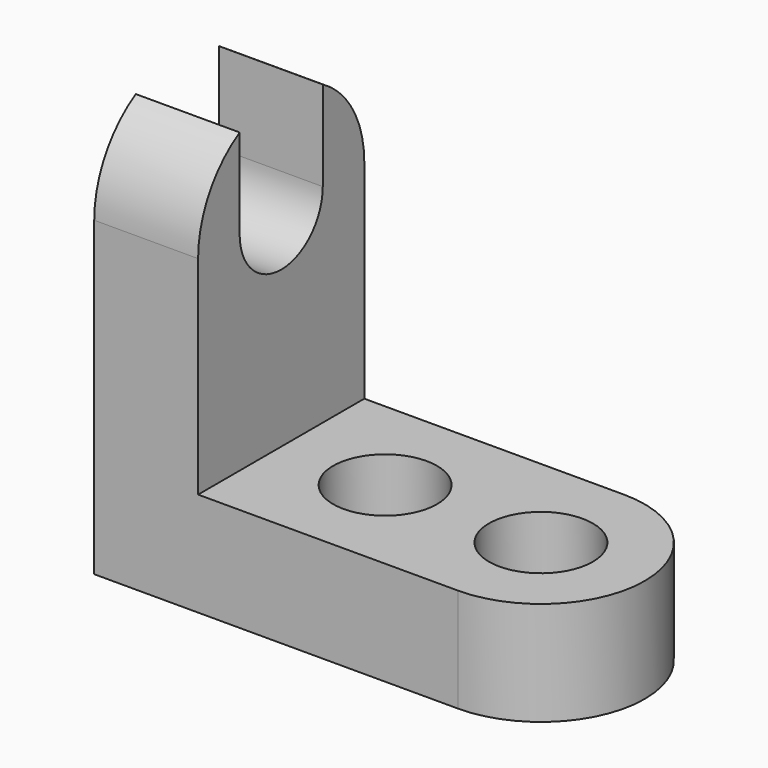
from build123d import *

# Parameters (mm, degrees)
F0_W      = 44.45
F0_H      = 25.4
F1_DEPTH  = 12.7
F2_R      = 12.7
F3_DEPTH  = 12.7
F4_W      = 12.7
F4_H      = 25.4
F5_DEPTH  = 25.4
F6_R      = 12.7
F7_DEPTH  = 12.7
F8_R      = 6.35
F9_DEPTH  = 12.7
F10_W     = 12.7
F10_H     = 21.287267
F11_DEPTH = 25.4
F12_R     = 6.35
F13_DEPTH = 25.4


with BuildPart() as f1:
    # F0 (on Top) → F1 (new body)
    with BuildSketch(Plane.XY):
        with Locations((22.225, 12.7)):
            Rectangle(F0_W, F0_H)
    extrude(amount=F1_DEPTH)

    # F2 (on face) → F3 (join)
    with BuildSketch(Plane.XY.offset(12.7)):
        with Locations((44.45, 12.7)):
            Circle(F2_R)
    extrude(amount=-F3_DEPTH)

    # F4 (on face) → F5 (join)
    with BuildSketch(Plane.XY.offset(12.7)):
        with Locations((6.35, 12.7)):
            Rectangle(F4_W, F4_H)
    extrude(amount=F5_DEPTH)

    # F6 (on face) → F7 (join)
    with BuildSketch(Plane(origin=(0, 0, 0), x_dir=(0, -1, 0), z_dir=(-1, 0, 0))):
        with Locations((-12.7, 38.1)):
            Circle(F6_R)
    extrude(amount=-F7_DEPTH)

    # F8 (on face) → F9 (cut)
    with BuildSketch(Plane(origin=(0, 0, 0), x_dir=(0, -1, 0), z_dir=(-1, 0, 0))):
        with Locations((-12.7, 38.1)):
            Circle(F8_R)
    extrude(amount=-F9_DEPTH, mode=Mode.SUBTRACT)

    # F10 (on face) → F11 (cut)
    with BuildSketch(Plane.YZ.offset(12.7)):
        with Locations((12.7, 48.743634)):
            Rectangle(F10_W, F10_H)
    extrude(amount=-F11_DEPTH, mode=Mode.SUBTRACT)

    # F12 (on face) → F13 (cut)
    with BuildSketch(Plane.XY.offset(12.7)):
        with Locations((44.45, 12.7)):
            Circle(F12_R)
        with Locations((25.4, 12.7)):
            Circle(F12_R)
    extrude(amount=-F13_DEPTH, mode=Mode.SUBTRACT)


solid = f1.part
